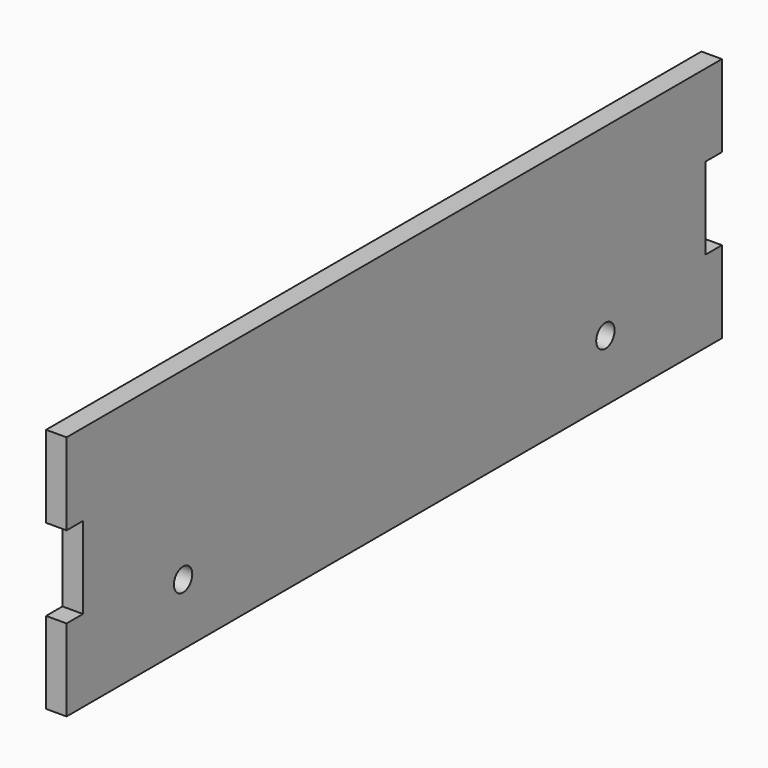
from build123d import *

# Parameters (mm, degrees)
F0_R     = 1.778
F1_DEPTH = 3.175
F0_W     = 3.175
F0_H     = 12.7
F2_DEPTH = 25.4


with BuildPart() as f1:
    # F0 (on Right) → F1 (new body)
    with BuildSketch(Plane.YZ):
        Polygon((-63.5, 0), (0, 0), (0, 12.7), (-3.175, 12.7), (-3.175, 25.4), (0, 25.4), (0, 38.1), (-63.5, 38.1), align=None)
        with Locations((-22.5806, 9.525)):
            Circle(F0_R, mode=Mode.SUBTRACT)
        Polygon((-127, 0), (-63.5, 0), (-63.5, 38.1), (-127, 38.1), (-127, 25.4), (-123.825, 25.4), (-123.825, 12.7), (-127, 12.7), align=None)
        with Locations((-104.4194, 9.525)):
            Circle(F0_R, mode=Mode.SUBTRACT)
        Polygon((-127, 0), (-63.5, 0), (-63.5, 38.1), (-127, 38.1), (-127, 25.4), (-123.825, 25.4), (-123.825, 12.7), (-127, 12.7), align=None)
        with Locations((-104.4194, 9.525)):
            Circle(F0_R, mode=Mode.SUBTRACT)
    extrude(amount=F1_DEPTH)

    # F0 (on Right) → F2 (cut)
    with BuildSketch(Plane.YZ):
        with Locations((-1.5875, 19.05)):
            Rectangle(F0_W, F0_H)
        with Locations((-125.4125, 19.05)):
            Rectangle(F0_W, F0_H)
    extrude(amount=-F2_DEPTH, mode=Mode.SUBTRACT)


solid = f1.part
